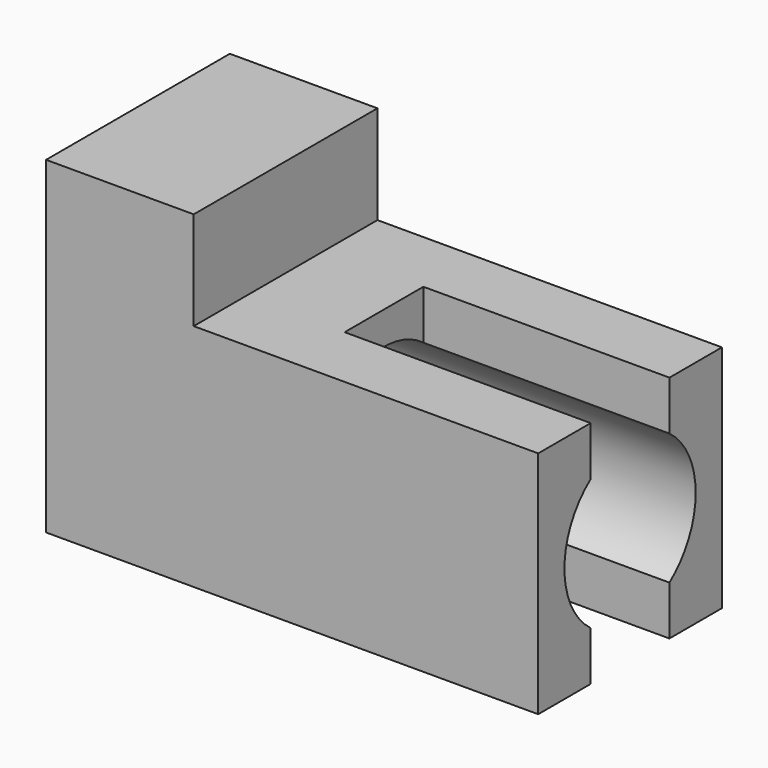
from build123d import *

# Parameters (mm, degrees)
F1_DEPTH = 14
F2_R     = 10
F3_DEPTH = 60.001
F5_DEPTH = 30


with BuildPart() as f1:
    # F0 (on Front) → F1 (new body, symmetric)
    with BuildSketch(Plane.XZ):
        Polygon((-55.1396682858, -47.0740273595), (4.8603317142, -47.0740273595), (4.8603317142, -19.0740273595), (-37.1396682858, -19.0740273595), (-37.1396682858, -7.0740273595), (-55.1396682858, -7.0740273595), align=None)
    extrude(amount=F1_DEPTH, both=True)

    # F2 (on face) → F3 (cut, through all)
    with BuildSketch(Plane.YZ.offset(4.8603317142)):
        with Locations((0, -33.0740273595)):
            Circle(F2_R)
    extrude(amount=-F3_DEPTH, mode=Mode.SUBTRACT)

    # F4 (on face) → F5 (cut)
    with BuildSketch(Plane.YZ.offset(4.8603317142)):
        with BuildLine():
            Line((6, -25.0740273595), (6, -19.0740273595))
            Line((6, -19.0740273595), (-6, -19.0740273595))
            Line((-6, -19.0740273595), (-6, -25.0740273595))
            ThreePointArc((-6, -25.0740273595), (0, -23.0740273595), (6, -25.0740273595))
        make_face()
        with BuildLine():
            Line((6, -47.0740273595), (6, -41.0740273595))
            ThreePointArc((6, -41.0740273595), (0, -43.0740273595), (-6, -41.0740273595))
            Line((-6, -41.0740273595), (-6, -47.0740273595))
            Line((-6, -47.0740273595), (6, -47.0740273595))
        make_face()
    extrude(amount=-F5_DEPTH, mode=Mode.SUBTRACT)


solid = f1.part
